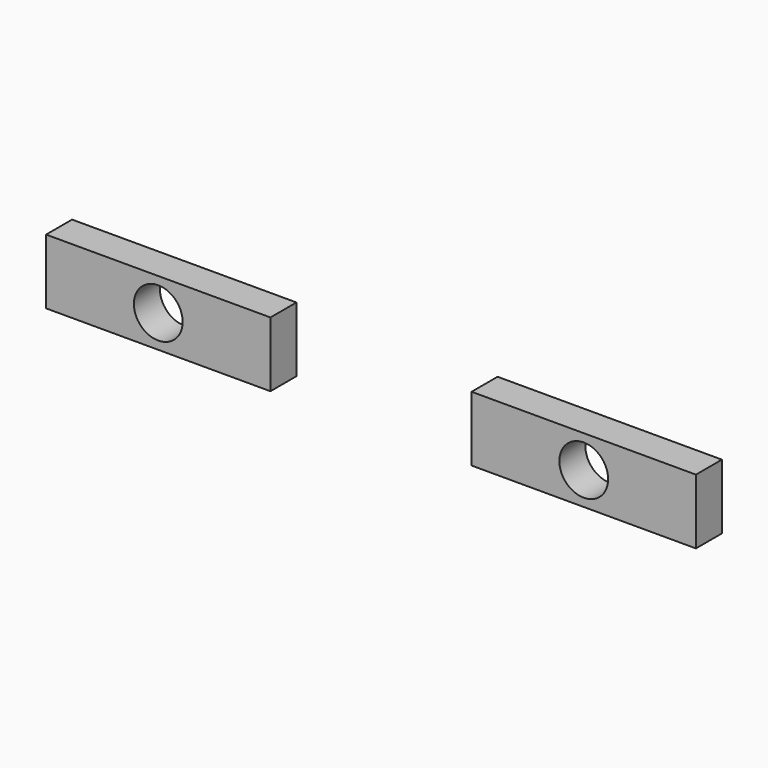
from build123d import *

# Parameters (mm, degrees)
F0_W     = 43.845368
F0_H     = 6.35
F1_DEPTH = 12.7
F2_R     = 4.7625
F3_DEPTH = 25.4


with BuildPart() as f1:
    # F0 (on Top) → F1 (new body)
    with BuildSketch(Plane.XY):
        with Locations((-41.577316, 0)):
            Rectangle(F0_W, F0_H)
        with Locations((41.577316, 0)):
            Rectangle(F0_W, F0_H)
    extrude(amount=F1_DEPTH)

    # F2 (on face) → F3 (cut)
    with BuildSketch(Plane.XZ.offset(3.175)):
        with Locations((-41.577316, 6.35)):
            Circle(F2_R)
        with Locations((41.577316, 6.35)):
            Circle(F2_R)
    extrude(amount=-F3_DEPTH, mode=Mode.SUBTRACT)


solid = f1.part
